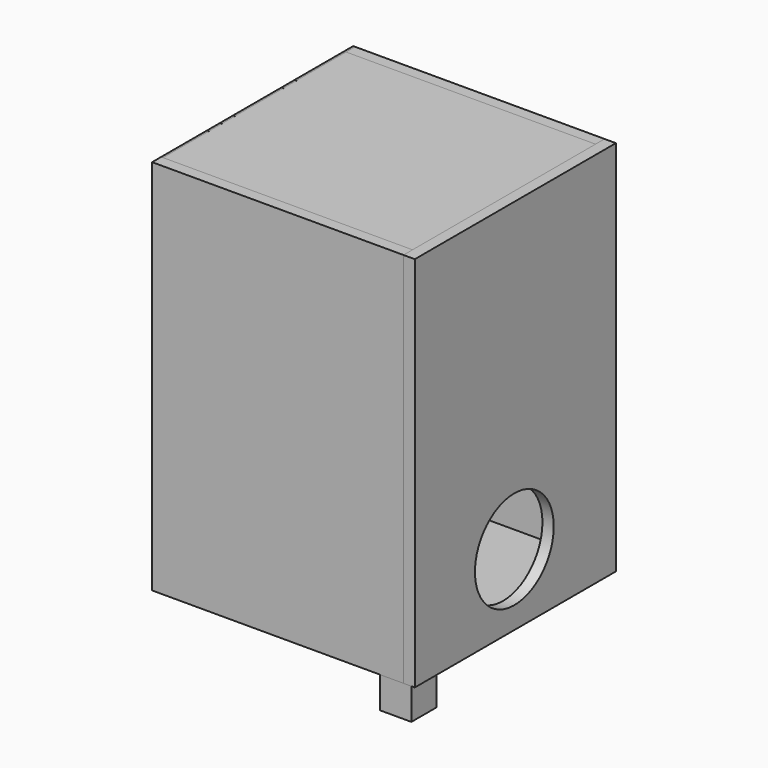
from build123d import *

# Parameters (mm, degrees)
F0_W      = 200
F0_H      = 300
F1_DEPTH  = 9
F2_W      = 1.5
F2_H      = 300
F3_DEPTH  = 191
F5_DEPTH  = 12
F7_DEPTH  = 182
F9_DEPTH  = 12
F10_W     = 16.525515
F10_H     = 49.141772
F11_DEPTH = 5
F12_W     = 200
F12_H     = 9
F13_DEPTH = 182
F14_W     = 200
F14_H     = 9
F15_DEPTH = 182
F16_W     = 201.503396
F16_H     = 299.997134
F17_DEPTH = 9
F18_W     = 199.982908
F18_H     = 300
F19_DEPTH = 9
F20_R     = 39.191546
F21_DEPTH = 30
F22_W     = 25
F22_H     = 25
F23_DEPTH = 25


with BuildPart() as f1:
    # F0 (on Front) → F1 (new body)
    with BuildSketch(Plane.XZ):
        with Locations((100, 150)):
            Rectangle(F0_W, F0_H)
    extrude(amount=F1_DEPTH)


with BuildPart() as f3:
    # F2 (on Front) → F3 (new body)
    with BuildSketch(Plane.XZ):
        with Locations((0.75, 150)):
            Rectangle(F2_W, F2_H)
    extrude(amount=-F3_DEPTH)


with BuildPart() as f5:
    # F4 (on face) → F5 (new body)
    with BuildSketch(Plane.XZ):
        Polygon((40.822188, 71.888947), (1.491757, 97.068447), (1.491757, 46.709447), align=None)
    extrude(amount=-F5_DEPTH)


with BuildPart() as f7:
    # F6 (on face) → F7 (new body)
    with BuildSketch(Plane.XZ):
        Polygon((6.744769, 103.415835), (1.491757, 97.068447), (40.822188, 71.888947), (46.0752, 78.236335), align=None)
    extrude(amount=-F7_DEPTH)


with BuildPart() as f9:
    # F8 (on face) → F9 (new body)
    with BuildSketch(Plane(origin=(0, 182, 0), x_dir=(-1, 0, 0), z_dir=(0, 1, 0))):
        Polygon((-1.491757, 97.068447), (-40.822188, 71.888947), (-1.731334, 47.364518), align=None)
    extrude(amount=-F9_DEPTH)


with BuildPart() as f11:
    # F10 (on face) → F11 (new body)
    with BuildSketch(Plane(origin=(48.920882, 0, 76.414518), x_dir=(0.842193, 0, -0.539176), z_dir=(0.539176, 0, 0.842193))):
        with Locations((-11.641651, 85.426528)):
            Rectangle(F10_W, F10_H)
    extrude(amount=F11_DEPTH)


with BuildPart() as f13:
    # F12 (on face) → F13 (new body)
    with BuildSketch(Plane.XZ):
        with Locations((101.503396, 295.497134)):
            Rectangle(F12_W, F12_H)
    extrude(amount=-F13_DEPTH)


with BuildPart() as f15:
    # F14 (on face) → F15 (new body)
    with BuildSketch(Plane.XZ):
        with Locations((99.995469, 4.5)):
            Rectangle(F14_W, F14_H)
    extrude(amount=-F15_DEPTH)


with BuildPart() as f17:
    # F16 (on face) → F17 (new body)
    with BuildSketch(Plane(origin=(0, 182, 0), x_dir=(-1, 0, 0), z_dir=(0, 1, 0))):
        with Locations((-100.751698, 149.998567)):
            Rectangle(F16_W, F16_H)
    extrude(amount=F17_DEPTH)


with BuildPart() as f19:
    # F18 (on face) → F19 (new body)
    with BuildSketch(Plane.YZ.offset(200)):
        with Locations((90.991454, 150)):
            Rectangle(F18_W, F18_H)
    extrude(amount=F19_DEPTH)

    # F20 (on face) → F21 (cut)
    with BuildSketch(Plane.YZ.offset(209)):
        with Locations((90.000883, 56.614403)):
            Circle(F20_R)
    extrude(amount=-F21_DEPTH, mode=Mode.SUBTRACT)


with BuildPart() as f23:
    # F22 (on face) → F23 (new body)
    with BuildSketch(Plane(origin=(0, 0, 0), x_dir=(1, 0, 0), z_dir=(0, 0, -1))):
        with Locations((193.781105, -3.5)):
            Rectangle(F22_W, F22_H)
    extrude(amount=F23_DEPTH)


solid = Compound([f1.part, f3.part, f5.part, f7.part, f9.part, f11.part, f13.part, f15.part, f17.part, f19.part, f23.part])
